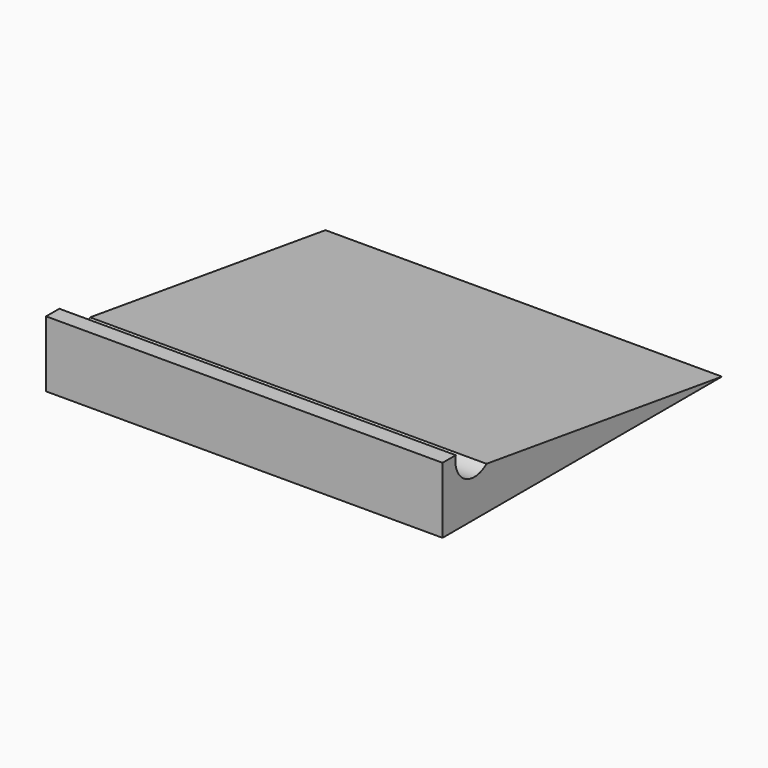
from build123d import *

# Parameters (mm, degrees)
F1_DEPTH = 152.4


with BuildPart() as f1:
    # F0 (on Right) → F1 (new body)
    with BuildSketch(Plane.YZ):
        with BuildLine():
            Line((-92.604421, 0.601124), (-90.45029, 0.601124))
            Line((-90.45029, 0.601124), (41.62971, 0.601124))
            Line((41.62971, 0.601124), (-71.477041, 17.073922))
            ThreePointArc((-71.477041, 17.073922), (-82.034408, 16.292348), (-86.254421, 26.001124))
            Line((-86.254421, 26.001124), (-92.604421, 26.001124))
            Line((-92.604421, 26.001124), (-92.604421, 0.601124))
        make_face()
    extrude(amount=-F1_DEPTH)


solid = f1.part
